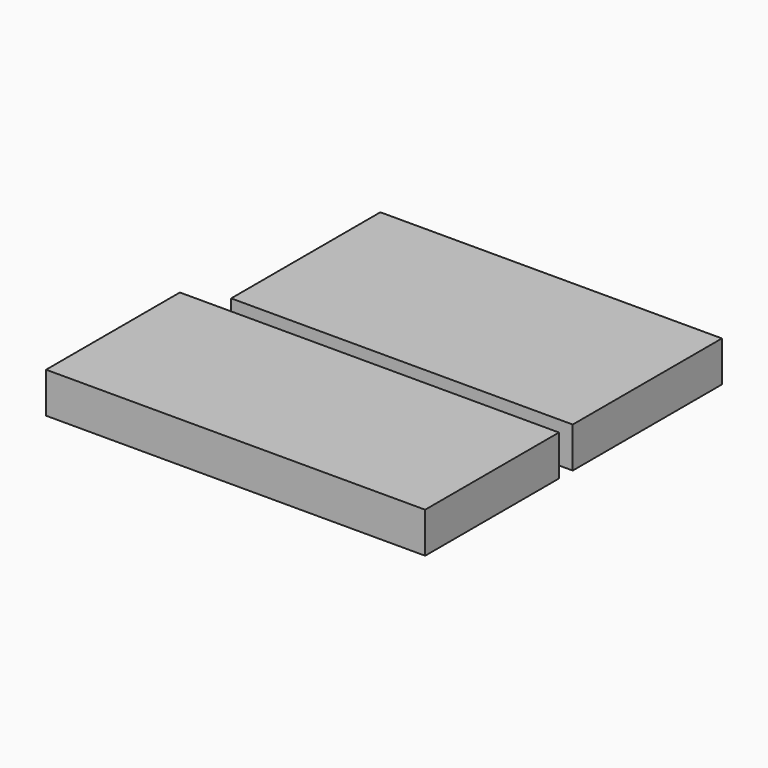
from build123d import *

# Parameters (mm, degrees)
F0_W     = 33.7
F0_H     = 18.4
F0_W_2   = 37.4
F0_H_2   = 16.5
F1_DEPTH = 4


with BuildPart() as f1:
    # F0 (on Top) → F1 (new body)
    with BuildSketch(Plane.XY):
        Rectangle(F0_W, F0_H)
        with Locations((-1.85, -19.15)):
            Rectangle(F0_W_2, F0_H_2)
    extrude(amount=F1_DEPTH)


solid = f1.part
